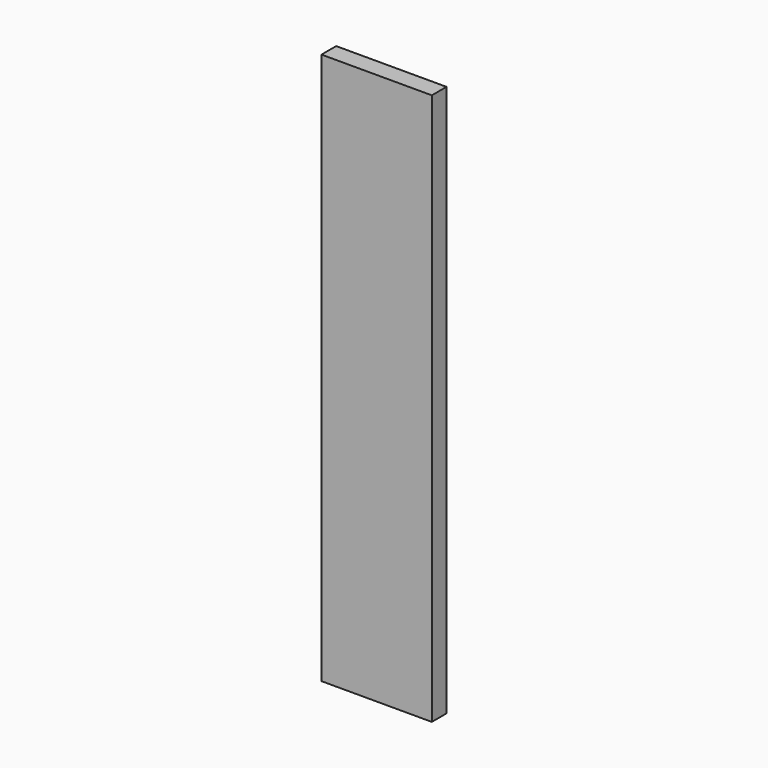
from build123d import *

# Parameters (mm, degrees)
SKETCH_W  = 600
SKETCH_H  = 100
PAD_DEPTH = 3000


with BuildPart() as body:
    # Sketch → Pad (new body)
    with BuildSketch(Plane.XY):
        Rectangle(SKETCH_W, SKETCH_H)
    extrude(amount=PAD_DEPTH)


with BuildPart() as wall0600_clone:
    # Clone base: copy of Body
    add(body.part)


solid = Compound([body.part, wall0600_clone.part])
